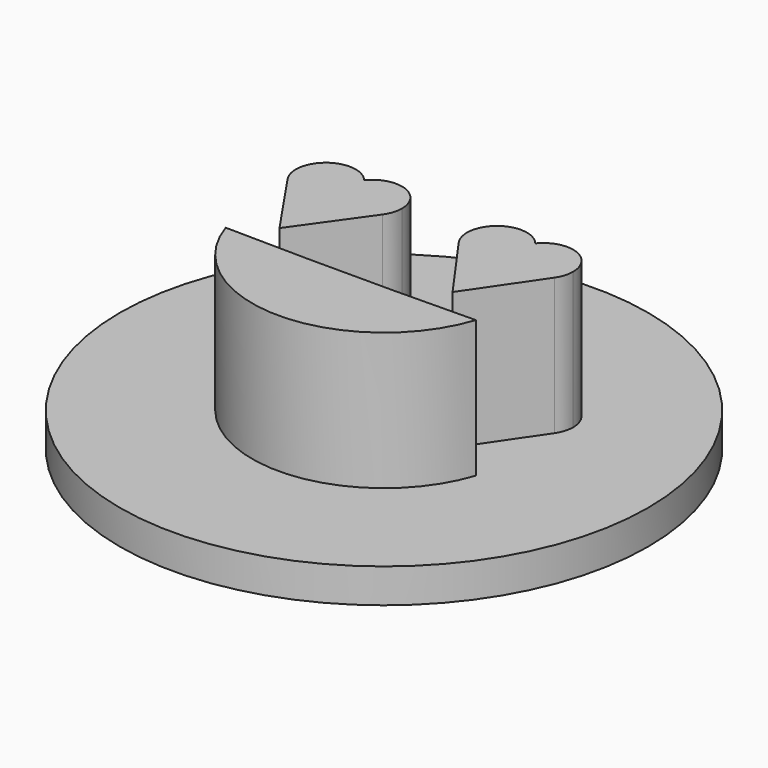
from build123d import *

# Parameters (mm, degrees)
F1_DEPTH = 25.4
F2_R     = 39.1903568665
F3_DEPTH = 5.08


with BuildPart() as f1:
    # F0 (on Top) → F1 (new body)
    with BuildSketch(Plane.XY):
        with BuildLine():
            ThreePointArc((-21.971, 9.8715757037), (-21.2167040506, 11.1973157351), (-20.955, 12.7))
            ThreePointArc((-20.955, 12.7), (-21.2167040506, 14.2026842649), (-21.971, 15.5284242963))
            ThreePointArc((-21.971, 15.5284242963), (-22.987, 12.7), (-21.971, 9.8715757037))
        make_face()
        with BuildLine():
            ThreePointArc((-21.971, 15.5284242963), (-21.2167040506, 14.2026842649), (-20.955, 12.7))
            ThreePointArc((-20.955, 12.7), (-21.2167040506, 11.1973157351), (-21.971, 9.8715757037))
            ThreePointArc((-21.971, 9.8715757037), (-18.3824406922, 8.2578647221), (-14.9189074762, 10.1248833882))
            ThreePointArc((-14.9189074762, 10.1248833882), (-14.307459218, 11.3484492736), (-14.097, 12.7))
            ThreePointArc((-14.097, 12.7), (-17.0393157351, 16.8832959494), (-21.971, 15.5284242963))
        make_face()
        with BuildLine():
            ThreePointArc((-21.971, 9.8715757037), (-22.987, 12.7), (-21.971, 15.5284242963))
            ThreePointArc((-21.971, 15.5284242963), (-28.0696752968, 16.2539919541), (-29.0716406137, 10.1945898132))
            ThreePointArc((-29.0716406137, 10.1945898132), (-25.6019978851, 8.2595921522), (-21.971, 9.8715757037))
        make_face()
        with BuildLine():
            ThreePointArc((-14.9189074762, 10.1248833882), (-18.3824406922, 8.2578647221), (-21.971, 9.8715757037))
            ThreePointArc((-21.971, 9.8715757037), (-25.6019978851, 8.2595921522), (-29.0716406137, 10.1945898132))
            Line((-29.0716406137, 10.1945898132), (-22.1151784062, 0))
            Line((-22.1151784062, 0), (-14.9189074762, 10.1248833882))
        make_face()
    extrude(amount=F1_DEPTH)



with BuildPart() as f1b:
    # F0 (on Top) → F1, piece 2 (new body)
    with BuildSketch(Plane.XY):
        with BuildLine():
            ThreePointArc((3.4295447311, 9.8715757037), (7.0605426162, 8.2595921522), (10.5301853448, 10.1945898132))
            ThreePointArc((10.5301853448, 10.1945898132), (11.1058066449, 11.388973213), (11.3035447311, 12.7))
            ThreePointArc((11.3035447311, 12.7), (8.361228996, 16.8832959494), (3.4295447311, 15.5284242963))
            ThreePointArc((3.4295447311, 15.5284242963), (4.1838406805, 14.2026842649), (4.4455447311, 12.7))
            ThreePointArc((4.4455447311, 12.7), (4.1838406805, 11.1973157351), (3.4295447311, 9.8715757037))
        make_face()
        with BuildLine():
            Line((3.5737231374, 0), (10.5301853448, 10.1945898132))
            ThreePointArc((10.5301853448, 10.1945898132), (7.0605426162, 8.2595921522), (3.4295447311, 9.8715757037))
            ThreePointArc((3.4295447311, 9.8715757037), (-0.1590145767, 8.2578647221), (-3.6225477926, 10.1248833882))
            Line((-3.6225477926, 10.1248833882), (3.5737231374, 0))
        make_face()
        with BuildLine():
            ThreePointArc((-3.6225477926, 10.1248833882), (-0.1590145767, 8.2578647221), (3.4295447311, 9.8715757037))
            ThreePointArc((3.4295447311, 9.8715757037), (2.4135447311, 12.7), (3.4295447311, 15.5284242963))
            ThreePointArc((3.4295447311, 15.5284242963), (-2.702968088, 16.2283202004), (-3.6225477926, 10.1248833882))
        make_face()
        with BuildLine():
            ThreePointArc((3.4295447311, 15.5284242963), (2.4135447311, 12.7), (3.4295447311, 9.8715757037))
            ThreePointArc((3.4295447311, 9.8715757037), (4.1838406805, 11.1973157351), (4.4455447311, 12.7))
            ThreePointArc((4.4455447311, 12.7), (4.1838406805, 14.2026842649), (3.4295447311, 15.5284242963))
        make_face()
    extrude(amount=F1_DEPTH)


with BuildPart() as f1c:
    # F0 (on Top) → F1, piece 3 (new body)
    with BuildSketch(Plane.XY):
        with BuildLine():
            ThreePointArc((10.0777297444, -3.81), (-8.4868707531, -3.9956055876), (-27.0514712505, -3.81))
            ThreePointArc((-27.0514712506, -3.81), (-8.4868707531, -17.2068977255), (10.0777297444, -3.81))
        make_face()
    extrude(amount=F1_DEPTH)


with BuildPart() as f1_1:
    add(f1.part)

    add(f1b.part)  # F3 merges F1b

    add(f1c.part)  # F3 merges F1c
    # F2 (on Top) → F3 (join)
    with BuildSketch(Plane.XY):
        with Locations((-8.4868707531, 2.3543944123)):
            Circle(F2_R)
    extrude(amount=F3_DEPTH)


solid = f1_1.part
